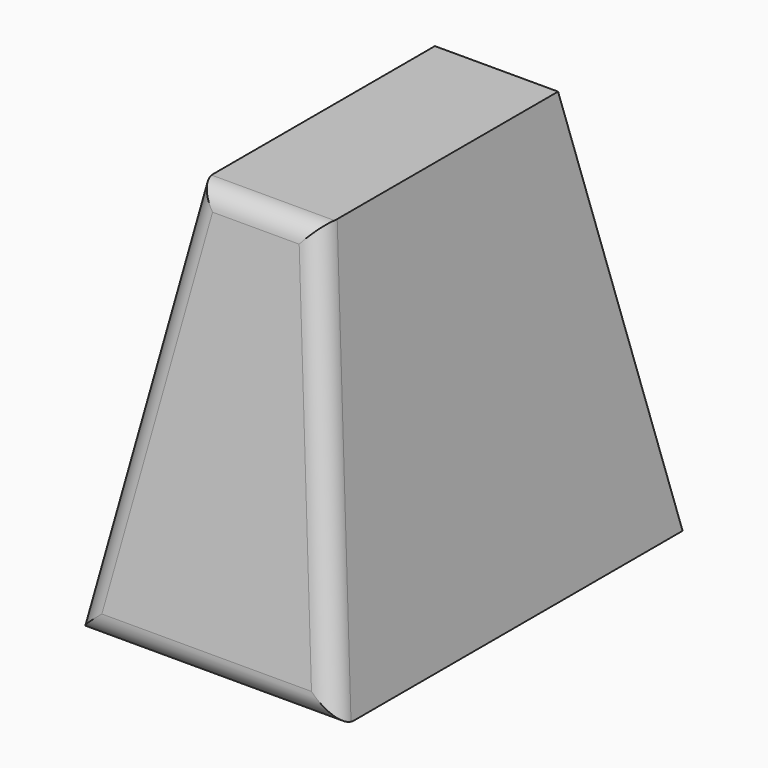
from build123d import *

# Parameters (mm, degrees)
F3_W     = 60
F3_H     = 100
F0_DEPTH = 90.0000035763
F0_TAPER = 10
F1_R     = 5
F2_R     = 15
F4_DEPTH = 20


with BuildPart() as f0:
    # F3 (on Top) → F0 (new body)
    with BuildSketch(Plane.XY):
        with Locations((30, 50)):
            Rectangle(F3_W, F3_H)
    extrude(amount=F0_DEPTH, taper=F0_TAPER)

    # F1
    f1_edges = [f0.edges().sort_by_distance(p)[0] for p in [
        (52.065286, 7.934714, 45.000002),
        (7.934714, 7.934714, 45.000002),
        (30, 0, 0),
        (30, 15.869429, 90.000004),
    ]]
    fillet(f1_edges, radius=F1_R)

    # F2 (on face) → F4 (cut)
    with BuildSketch(Plane(origin=(0, 0, 0), x_dir=(1, 0, 0), z_dir=(0, 0, -1))):
        with Locations((20.6221230328, -49.5650991797)):
            Circle(F2_R)
    extrude(amount=-F4_DEPTH, mode=Mode.SUBTRACT)


solid = f0.part
